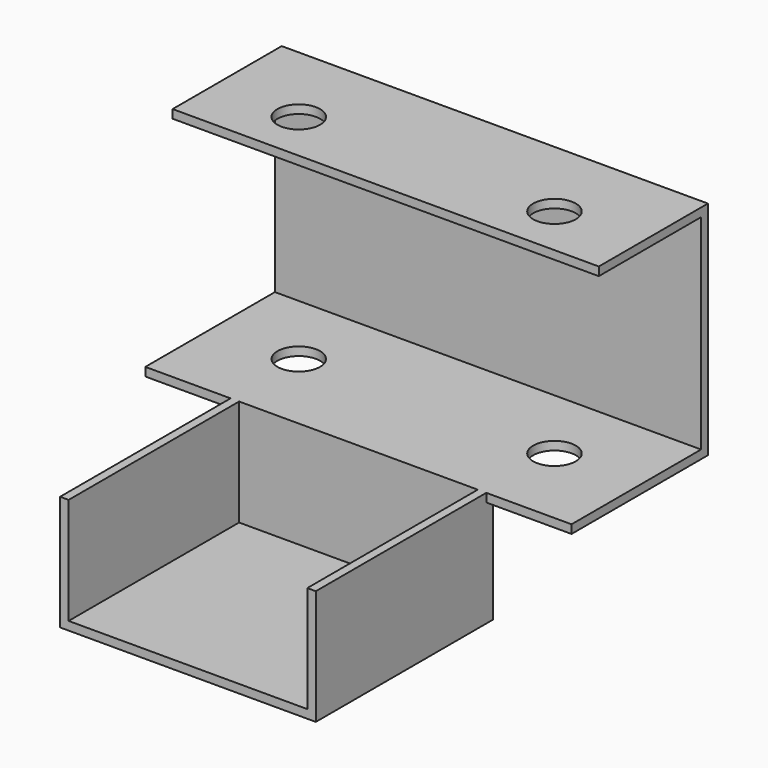
from build123d import *

# Parameters (mm, degrees)
F0_W      = 100
F0_H      = 40
F1_DEPTH  = 2
F2_W      = 100
F2_H      = 2
F3_DEPTH  = 50
F4_W      = 100
F4_H      = 2
F5_DEPTH  = 30
F6_R      = 5
F7_DEPTH  = 100
F8_W      = 60
F8_H      = 2
F9_DEPTH  = 25
F10_W     = 60
F10_H     = 2
F11_DEPTH = 50
F12_W     = 2
F12_H     = 50
F13_DEPTH = 25


with BuildPart() as f1:
    # F0 (on Top) → F1 (new body)
    with BuildSketch(Plane.XY):
        Rectangle(F0_W, F0_H)
    extrude(amount=F1_DEPTH)

    # F2 (on face) → F3 (join)
    with BuildSketch(Plane.XY.offset(2)):
        with Locations((0, 19)):
            Rectangle(F2_W, F2_H)
    extrude(amount=F3_DEPTH)

    # F4 (on face) → F5 (join)
    with BuildSketch(Plane.XZ.offset(-18)):
        with Locations((0, 51)):
            Rectangle(F4_W, F4_H)
    extrude(amount=F5_DEPTH)

    # F6 (on face) → F7 (cut)
    with BuildSketch(Plane.XY.offset(52)):
        with Locations((30, 0)):
            Circle(F6_R)
        with Locations((-30, 0)):
            Circle(F6_R)
    extrude(amount=-F7_DEPTH, mode=Mode.SUBTRACT)

    # F8 (on face) → F9 (join)
    with BuildSketch(Plane(origin=(0, 0, 0), x_dir=(1, 0, 0), z_dir=(0, 0, -1))):
        with Locations((0, 19)):
            Rectangle(F8_W, F8_H)
    extrude(amount=F9_DEPTH)

    # F10 (on face) → F11 (join)
    with BuildSketch(Plane.XZ.offset(20)):
        with Locations((0, -24)):
            Rectangle(F10_W, F10_H)
    extrude(amount=F11_DEPTH)

    # F12 (on face) → F13 (join)
    with BuildSketch(Plane.XY.offset(-23)):
        with Locations((-29, -45)):
            Rectangle(F12_W, F12_H)
        with Locations((29, -45)):
            Rectangle(F12_W, F12_H)
    extrude(amount=F13_DEPTH)


solid = f1.part
